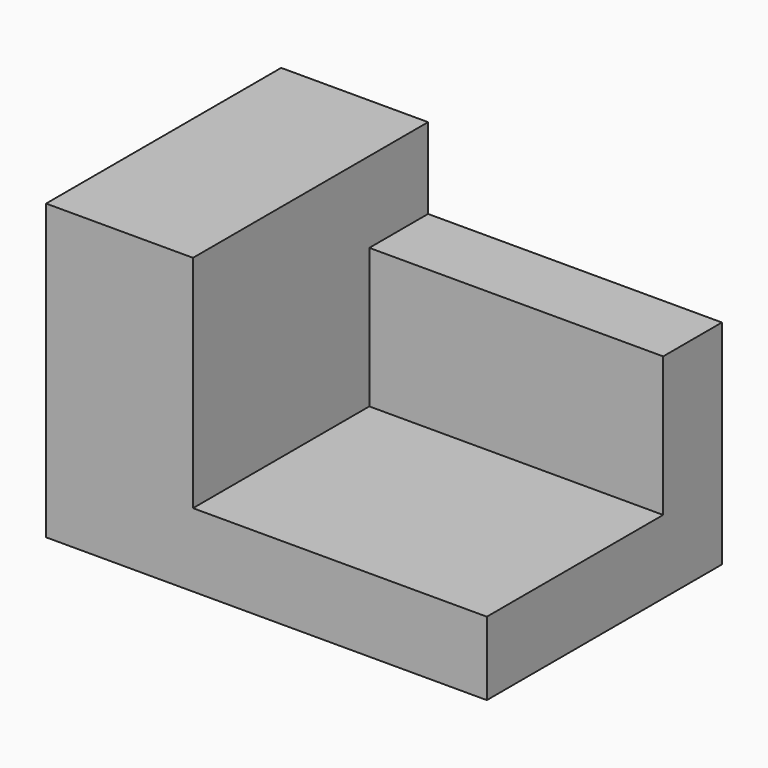
from build123d import *

# Parameters (mm, degrees)
F0_W     = 25.4
F0_H     = 25.4
F1_DEPTH = 12.7
F3_DEPTH = 25.4


with BuildPart() as f1:
    # F0 (on Right) → F1 (new body)
    with BuildSketch(Plane.YZ):
        with Locations((12.7, 12.7)):
            Rectangle(F0_W, F0_H)
    extrude(amount=F1_DEPTH)

    # F2 (on face) → F3 (join)
    with BuildSketch(Plane.YZ.offset(12.7)):
        Polygon((0, 0), (25.4, 0), (25.4, 18.415), (19.05, 18.415), (19.05, 6.35), (0, 6.35), align=None)
    extrude(amount=F3_DEPTH)


solid = f1.part
